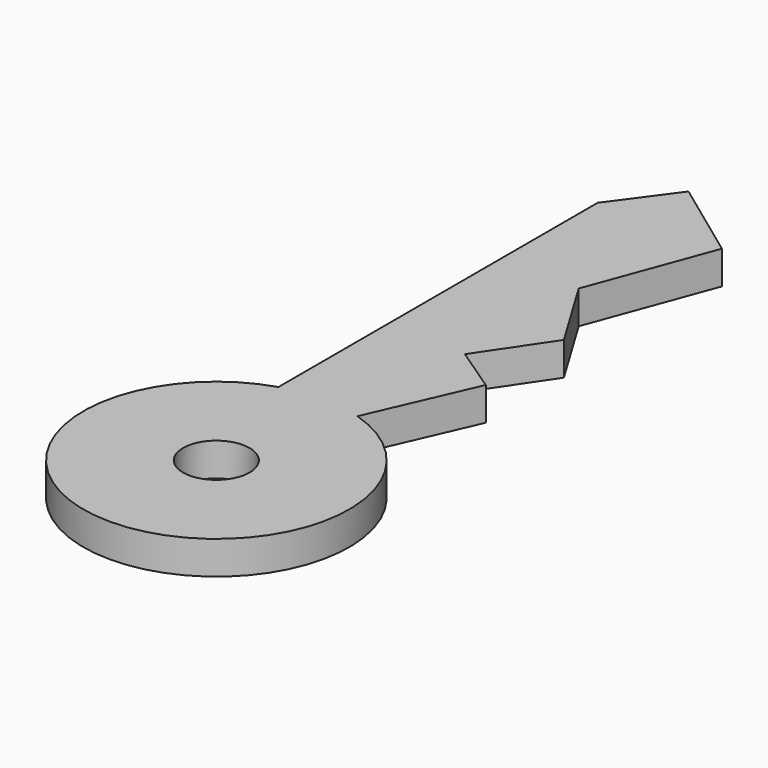
from build123d import *

# Parameters (mm, degrees)
F0_R     = 3.175
F1_DEPTH = 3.175


with BuildPart() as f1:
    # F0 (on Top) → F1 (new body)
    with BuildSketch(Plane.XY):
        with BuildLine():
            Line((0, 38.1), (0, 0))
            ThreePointArc((0, 0), (3.772278, -24.826826), (7.544557, 0))
            Line((7.544557, 0), (11.865513, 9.914308))
            Line((11.865513, 9.914308), (7.544557, 12.825744))
            Line((7.544557, 12.825744), (11.865513, 19.238615))
            Line((11.865513, 19.238615), (7.544557, 26.40594))
            Line((7.544557, 26.40594), (11.865513, 38.1))
            Line((11.865513, 38.1), (4.149509, 43.758412))
            Line((4.149509, 43.758412), (0, 38.1))
        make_face()
        with Locations((3.772278, -12.126826)):
            Circle(F0_R, mode=Mode.SUBTRACT)
    extrude(amount=F1_DEPTH)


solid = f1.part
